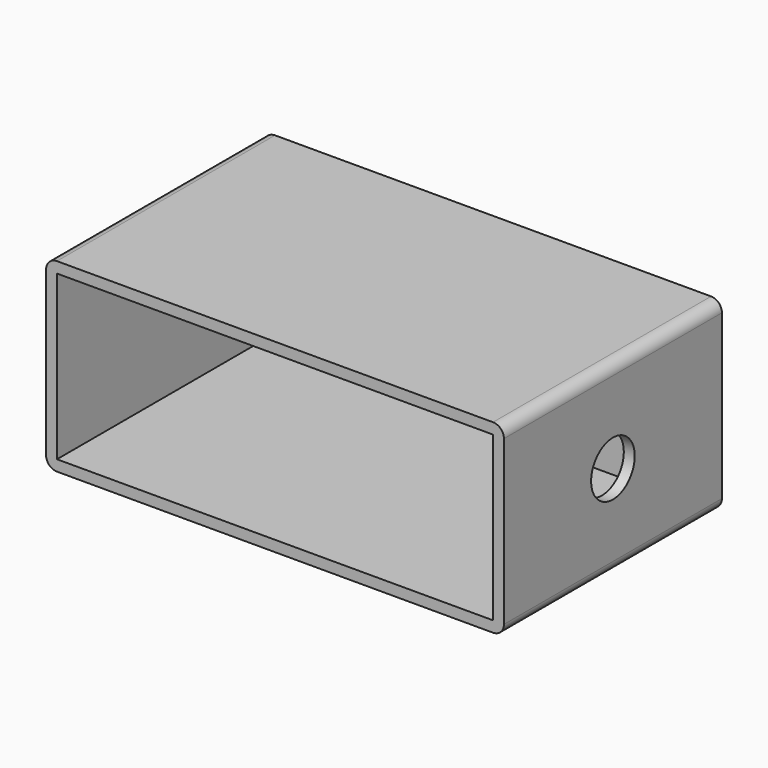
from build123d import *

# Parameters (mm, degrees)
F0_W     = 40
F0_H     = 15
F1_DEPTH = 25
F2_DEPTH = 2
F3_R     = 2.5
F4_DEPTH = 5


with BuildPart() as f1:
    # F0 (on Front) → F1 (new body)
    with BuildSketch(Plane.XZ):
        with BuildLine():
            Line((-20, -8.5), (20, -8.5))
            ThreePointArc((20, -8.5), (20.707107, -8.207107), (21, -7.5))
            Line((21, -7.5), (21, 7.5))
            ThreePointArc((21, 7.5), (20.707107, 8.207107), (20, 8.5))
            Line((20, 8.5), (-20, 8.5))
            ThreePointArc((-20, 8.5), (-20.707107, 8.207107), (-21, 7.5))
            Line((-21, 7.5), (-21, -7.5))
            ThreePointArc((-21, -7.5), (-20.707107, -8.207107), (-20, -8.5))
        make_face()
        Rectangle(F0_W, F0_H, mode=Mode.SUBTRACT)
    extrude(amount=F1_DEPTH)

    # F0 (on Front) → F2 (join)
    with BuildSketch(Plane.XZ):
        Rectangle(F0_W, F0_H)
    extrude(amount=F2_DEPTH)

    # F3 (on face) → F4 (cut)
    with BuildSketch(Plane.YZ.offset(21)):
        with Locations((-12.5, 0)):
            Circle(F3_R)
    extrude(amount=-F4_DEPTH, mode=Mode.SUBTRACT)


solid = f1.part
